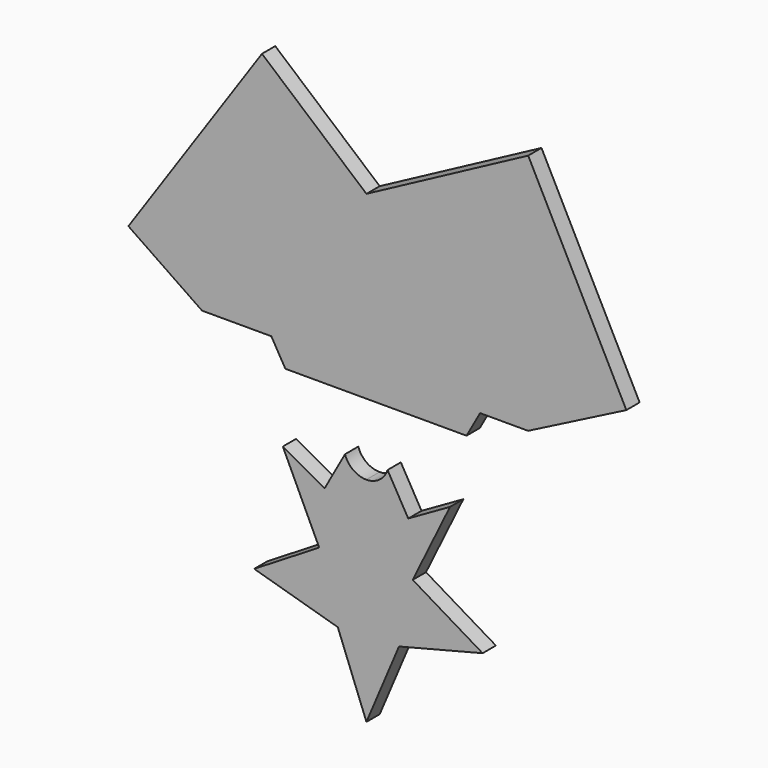
from build123d import *

# Parameters (mm, degrees)
F0_R     = 8.829839
F1_DEPTH = 3.02768


with BuildPart() as f1:
    # F0 (on Front) → F1 (new body)
    with BuildSketch(Plane.XZ):
        Polygon((-14.776537, 30.511623), (-9.45221, 30.511623), (18.243463, 30.511623), (20.726544, 34.943407), (23.209625, 39.375191), (23.209625, 54.615191), (18.089482, 63.390711), (0, 63.390711), (-14.930518, 63.390711), (-19.896679, 54.527142), (-19.896679, 39.287142), (-17.336608, 34.899383), align=None)
        with BuildLine():
            Line((-20.45646, -3.439647), (-5.21646, -7.844945))
            ThreePointArc((-5.21646, -7.844945), (-9.045748, -2.632311), (-8.611271, 3.821078))
            Line((-8.611271, 3.821078), (-20.45646, -3.439647))
        make_face()
        with BuildLine():
            Line((0, -21.350686), (5.937121, -7.314725))
            ThreePointArc((5.937121, -7.314725), (0.447349, -9.41034), (-5.21646, -7.844945))
            Line((-5.21646, -7.844945), (0, -21.350686))
        make_face()
        with BuildLine():
            ThreePointArc((8.437115, 4.191624), (9.171706, 2.15277), (9.420967, 0))
            ThreePointArc((9.420967, 0), (8.505529, -4.051), (5.937121, -7.314725))
            Line((5.937121, -7.314725), (21.177121, -3.439647))
            Line((21.177121, -3.439647), (8.437115, 4.191624))
        make_face()
        Polygon((23.209625, 39.375191), (20.726544, 34.943407), (29.465981, 34.943407), (47.374807, 44.090033), (29.487289, 79.113273), (0, 63.390711), (18.089482, 63.390711), (23.209625, 54.615191), align=None)
        Polygon((-29.958768, 34.899383), (-17.336608, 34.899383), (-19.896679, 39.287142), (-19.896679, 54.527142), (-14.930518, 63.390711), (0, 63.390711), (-19.039609, 79.677324), (-43.390386, 44.090033), align=None)
        with BuildLine():
            ThreePointArc((0, 9.420967), (4.963137, 8.007614), (8.437115, 4.191624))
            Line((8.437115, 4.191624), (15.24, 18.115476))
            Line((15.24, 18.115476), (7.62, 13.768222))
            Line((7.62, 13.768222), (0, 9.420967))
        make_face()
        with BuildLine():
            ThreePointArc((-8.611271, 3.821078), (-5.13597, 7.897875), (0, 9.420967))
            Line((0, 9.420967), (-7.62, 13.653567))
            Line((-7.62, 13.653567), (-15.24, 17.886167))
            Line((-15.24, 17.886167), (-8.611271, 3.821078))
        make_face()
        with BuildLine():
            Line((-7.62, 13.653567), (0, 9.420967))
            Line((0, 9.420967), (7.62, 13.768222))
            Line((7.62, 13.768222), (3.852159, 20.333877))
            ThreePointArc((3.852159, 20.333877), (2.369176, 18.295184), (-0.0286, 17.516605))
            ThreePointArc((-0.0286, 17.516605), (-2.426376, 18.295184), (-3.909359, 20.333877))
            Line((-3.909359, 20.333877), (-7.62, 13.653567))
        make_face()
        with BuildLine():
            ThreePointArc((5.937121, -7.314725), (8.505529, -4.051), (9.420967, 0))
            ThreePointArc((9.420967, 0), (9.171706, 2.15277), (8.437115, 4.191624))
            ThreePointArc((8.437115, 4.191624), (4.963137, 8.007614), (0, 9.420967))
            ThreePointArc((0, 9.420967), (-5.13597, 7.897875), (-8.611271, 3.821078))
            ThreePointArc((-8.611271, 3.821078), (-9.045748, -2.632311), (-5.21646, -7.844945))
            ThreePointArc((-5.21646, -7.844945), (0.447349, -9.41034), (5.937121, -7.314725))
        make_face()
        Circle(F0_R, mode=Mode.SUBTRACT)
        Circle(F0_R)
    extrude(amount=F1_DEPTH)


solid = f1.part
